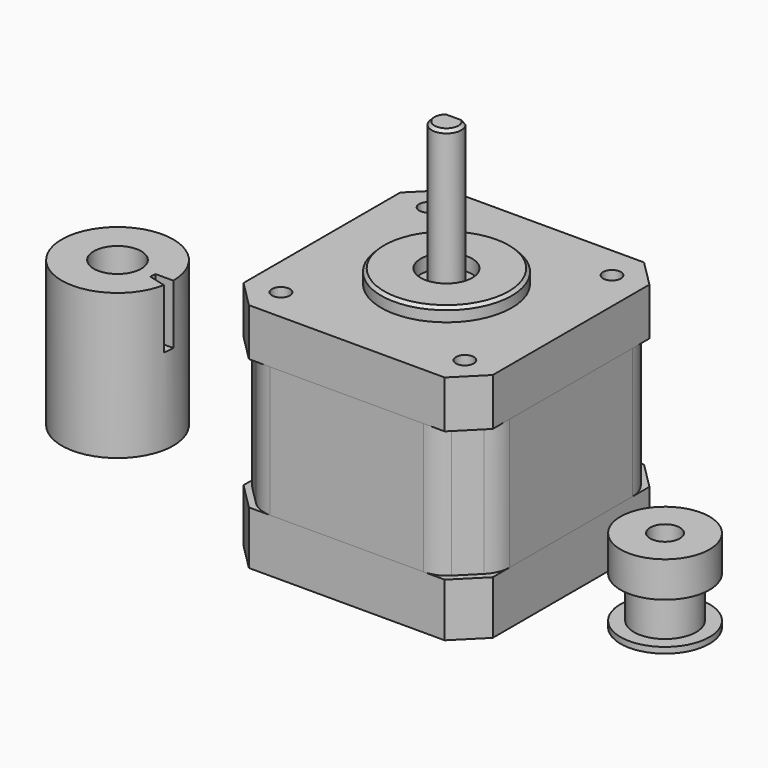
from build123d import *

# Parameters (mm, degrees)
F0_W      = 42
F0_H      = 42
F1_DEPTH  = 9
F2_SIZE   = 4.5
F4_DEPTH  = 22
F5_SIZE   = 6
F6_R      = 5
F8_DEPTH  = 8
F9_SIZE   = 4.5
F10_R     = 11
F10_R_2   = 4.35
F11_DEPTH = 2.3
F10_R_3   = 2.5
F12_DEPTH = 24.1
F14_DEPTH = 15
F15_SIZE  = 0.5
F16_SIZE  = 0.5
F17_D     = 3
F17_DEPTH = 5
F17_TIP   = 0.9012909285
F18_R     = 9.4
F18_R_2   = 2.5
F19_DEPTH = 24.5
F20_DEPTH = 10
F21_R     = 4
F22_DEPTH = 10
F23_R     = 7.5
F23_R_2   = 5.25
F24_DEPTH = 1
F23_R_3   = 2.5
F25_DEPTH = 8
F26_R     = 7.5
F26_R_2   = 5.25
F27_DEPTH = 6
F28_DEPTH = 14


with BuildPart() as f1:
    # F0 (on Top) → F1 (new body)
    with BuildSketch(Plane.XY):
        Rectangle(F0_W, F0_H)
    extrude(amount=F1_DEPTH)

    # F2
    f2_edges = [f1.edges().sort_by_distance(p)[0] for p in [
        (-21, -21, 4.5),
        (21, -21, 4.5),
        (-21, 21, 4.5),
        (21, 21, 4.5),
    ]]
    chamfer(f2_edges, length=F2_SIZE)


with BuildPart() as f4:
    # F3 (on face) → F4 (new body)
    with BuildSketch(Plane.XY.offset(9)):
        Polygon((21, 16.5), (16.5, 21), (-16.5, 21), (-21, 16.5), (-21, -16.5), (-16.5, -21), (16.5, -21), (21, -16.5), align=None)
        Polygon((-21, 16.5), (-16.5, 21), (-21, 21), align=None)
        Polygon((21, 16.5), (21, 21), (16.5, 21), align=None)
        Polygon((-16.5, -21), (-21, -16.5), (-21, -21), align=None)
        Polygon((21, -21), (21, -16.5), (16.5, -21), align=None)
    extrude(amount=F4_DEPTH)

    # F5
    f5_edges = [f4.edges().sort_by_distance(p)[0] for p in [
        (-21, 21, 20),
        (-21, -21, 20),
        (21, 21, 20),
        (21, -21, 20),
    ]]
    chamfer(f5_edges, length=F5_SIZE)

    # F6
    f6_edges = [f4.edges().sort_by_distance(p)[0] for p in [
        (-15, 21, 20),
        (-21, 15, 20),
        (-21, -15, 20),
        (-15, -21, 20),
        (15, -21, 20),
        (21, -15, 20),
        (21, 15, 20),
        (15, 21, 20),
    ]]
    fillet(f6_edges, radius=F6_R)


with BuildPart() as f8:
    # F7 (on face) → F8 (new body)
    with BuildSketch(Plane.XY.offset(31)):
        with BuildLine():
            Line((12.9289321881, 21), (-12.9289321881, 21))
            ThreePointArc((-12.9289321881, 21), (-14.84234935, 20.6193976626), (-16.4644660941, 19.5355339059))
            Line((-16.4644660941, 19.5355339059), (-19.5355339059, 16.4644660941))
            ThreePointArc((-19.5355339059, 16.4644660941), (-20.6193976626, 14.84234935), (-21, 12.9289321881))
            Line((-21, 12.9289321881), (-21, -12.9289321881))
            ThreePointArc((-21, -12.9289321881), (-20.6193976626, -14.84234935), (-19.5355339059, -16.4644660941))
            Line((-19.5355339059, -16.4644660941), (-16.4644660941, -19.5355339059))
            ThreePointArc((-16.4644660941, -19.5355339059), (-14.84234935, -20.6193976626), (-12.9289321881, -21))
            Line((-12.9289321881, -21), (12.9289321881, -21))
            ThreePointArc((12.9289321881, -21), (14.84234935, -20.6193976626), (16.4644660941, -19.5355339059))
            Line((16.4644660941, -19.5355339059), (19.5355339059, -16.4644660941))
            ThreePointArc((19.5355339059, -16.4644660941), (20.6193976626, -14.84234935), (21, -12.9289321881))
            Line((21, -12.9289321881), (21, 12.9289321881))
            ThreePointArc((21, 12.9289321881), (20.6193976626, 14.84234935), (19.5355339059, 16.4644660941))
            Line((19.5355339059, 16.4644660941), (16.4644660941, 19.5355339059))
            ThreePointArc((16.4644660941, 19.5355339059), (14.84234935, 20.6193976626), (12.9289321881, 21))
        make_face()
        with BuildLine():
            Line((-12.9289321881, 21), (-21, 21))
            Line((-21, 21), (-21, 12.9289321881))
            ThreePointArc((-21, 12.9289321881), (-20.6193976626, 14.84234935), (-19.5355339059, 16.4644660941))
            Line((-19.5355339059, 16.4644660941), (-16.4644660941, 19.5355339059))
            ThreePointArc((-16.4644660941, 19.5355339059), (-14.84234935, 20.6193976626), (-12.9289321881, 21))
        make_face()
        with BuildLine():
            Line((21, 21), (12.9289321881, 21))
            ThreePointArc((12.9289321881, 21), (14.84234935, 20.6193976626), (16.4644660941, 19.5355339059))
            Line((16.4644660941, 19.5355339059), (19.5355339059, 16.4644660941))
            ThreePointArc((19.5355339059, 16.4644660941), (20.6193976626, 14.84234935), (21, 12.9289321881))
            Line((21, 12.9289321881), (21, 21))
        make_face()
        with BuildLine():
            ThreePointArc((-19.5355339059, -16.4644660941), (-20.6193976626, -14.84234935), (-21, -12.9289321881))
            Line((-21, -12.9289321881), (-21, -21))
            Line((-21, -21), (-12.9289321881, -21))
            ThreePointArc((-12.9289321881, -21), (-14.84234935, -20.6193976626), (-16.4644660941, -19.5355339059))
            Line((-16.4644660941, -19.5355339059), (-19.5355339059, -16.4644660941))
        make_face()
        with BuildLine():
            Line((21, -21), (21, -12.9289321881))
            ThreePointArc((21, -12.9289321881), (20.6193976626, -14.84234935), (19.5355339059, -16.4644660941))
            Line((19.5355339059, -16.4644660941), (16.4644660941, -19.5355339059))
            ThreePointArc((16.4644660941, -19.5355339059), (14.84234935, -20.6193976626), (12.9289321881, -21))
            Line((12.9289321881, -21), (21, -21))
        make_face()
    extrude(amount=F8_DEPTH)

    # F9
    f9_edges = [f8.edges().sort_by_distance(p)[0] for p in [
        (-21, 21, 35),
        (21, 21, 35),
        (-21, -21, 35),
        (21, -21, 35),
    ]]
    chamfer(f9_edges, length=F9_SIZE)

    # F10 (on face) → F11 (join)
    with BuildSketch(Plane.XY.offset(39)):
        Circle(F10_R)
        Circle(F10_R_2, mode=Mode.SUBTRACT)
    extrude(amount=F11_DEPTH)

    # F16
    f16_edges = [f8.edges().sort_by_distance(p)[0] for p in [
        (-11, 0, 41.3),
    ]]
    chamfer(f16_edges, length=F16_SIZE)

    # F17
    with Locations(Plane.XY.offset(39)):
        with Locations((-15.5, 15.5), (15.5, 15.5), (15.5, -15.5), (-15.5, -15.5)):
            Hole(F17_D / 2, depth=F17_DEPTH)
            with Locations((0, 0, -(F17_DEPTH + F17_TIP / 2))):  # 118° drill point
                Cone(0, F17_D / 2, F17_TIP, mode=Mode.SUBTRACT)


with BuildPart() as f12:
    # F10 (on face) → F12 (new body)
    with BuildSketch(Plane.XY.offset(39)):
        Circle(F10_R_3)
    extrude(amount=F12_DEPTH)

    # F13 (on face) → F14 (cut)
    with BuildSketch(Plane.XY.offset(63.1)):
        with BuildLine():
            ThreePointArc((2, 1.5), (0, 2.5), (-2, 1.5))
            Line((-2, 1.5), (2, 1.5))
        make_face()
    extrude(amount=-F14_DEPTH, mode=Mode.SUBTRACT)

    # F15
    f15_edges = [f12.edges().sort_by_distance(p)[0] for p in [
        (-0.790569, -2.371708, 63.1),
    ]]
    chamfer(f15_edges, length=F15_SIZE)


with BuildPart() as f19:
    # F18 (on Top) → F19 (new body)
    with BuildSketch(Plane.XY):
        with Locations((-55.4408369965, 0)):
            Circle(F18_R)
        with Locations((-55.4408369965, 0)):
            Circle(F18_R_2, mode=Mode.SUBTRACT)
        with Locations((-55.4408369965, 0)):
            Circle(F18_R_2)
    extrude(amount=F19_DEPTH)

    # F18 (on Top) → F20 (cut)
    with BuildSketch(Plane.XY):
        with Locations((-55.4408369965, 0)):
            Circle(F18_R_2)
    extrude(amount=F20_DEPTH, mode=Mode.SUBTRACT)

    # F21 (on face) → F22 (cut)
    with BuildSketch(Plane.XY.offset(24.5)):
        with Locations((-55.4408369965, 0)):
            Circle(F21_R)
        with BuildLine():
            ThreePointArc((-46.211009649, -1.7805300153), (-46.0834768702, -0.8943217915), (-46.0408369965, 0))
            Line((-46.0408369965, 0), (-48.9998832345, 0))
            Line((-48.9998832345, 0), (-49.1390116513, -0.99807058))
            Line((-49.1390116513, -0.99807058), (-46.211009649, -1.7805300153))
        make_face()
    extrude(amount=-F22_DEPTH, mode=Mode.SUBTRACT)


with BuildPart() as f24:
    # F23 (on Top) → F24 (new body)
    with BuildSketch(Plane.XY):
        with Locations((36.8342996833, 0)):
            Circle(F23_R)
        with Locations((36.8342996833, 0)):
            Circle(F23_R_2, mode=Mode.SUBTRACT)
    extrude(amount=F24_DEPTH)

    # F23 (on Top) → F25 (join)
    with BuildSketch(Plane.XY):
        with Locations((36.8342996833, 0)):
            Circle(F23_R_2)
        with Locations((36.8342996833, 0)):
            Circle(F23_R_3, mode=Mode.SUBTRACT)
        with Locations((36.8342996833, 0)):
            Circle(F23_R_3)
    extrude(amount=F25_DEPTH)

    # F26 (on face) → F27 (join)
    with BuildSketch(Plane.XY.offset(8)):
        with Locations((36.8342996833, 0)):
            Circle(F26_R)
        with Locations((36.8342996833, 0)):
            Circle(F26_R_2, mode=Mode.SUBTRACT)
        with Locations((36.8342996833, 0)):
            Circle(F26_R_2)
    extrude(amount=F27_DEPTH)

    # F23 (on Top) → F28 (cut, through all)
    with BuildSketch(Plane.XY):
        with Locations((36.8342996833, 0)):
            Circle(F23_R_3)
    extrude(amount=F28_DEPTH, mode=Mode.SUBTRACT)


solid = Compound([f1.part, f4.part, f8.part, f12.part, f19.part, f24.part])
